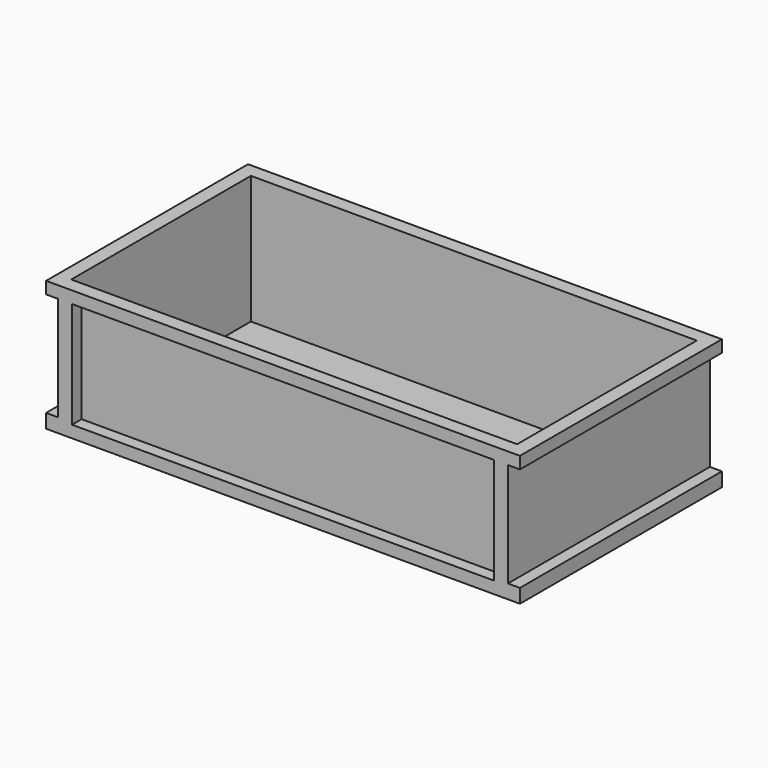
from build123d import *

# Parameters (mm, degrees)
SKETCH_W          = 1186
SKETCH_H          = 632
PAD_DEPTH         = 326
SKETCH001_W       = 30
SKETCH001_H       = 261
POCKET_DEPTH      = 3081.716821
POCKET_DEPTH_BACK = 3081.716821
SKETCH002_W       = 1056
SKETCH002_H       = 266
POCKET001_DEPTH   = 30
SKETCH003_W       = 1116
SKETCH003_H       = 562
POCKET002_DEPTH   = 321.001


with BuildPart() as part:
    # Sketch → Pad (new body)
    with BuildSketch(Plane.XY):
        Rectangle(SKETCH_W, SKETCH_H)
    extrude(amount=PAD_DEPTH)

    # Sketch001 → Pocket (cut, two sides)
    with BuildSketch(Plane.XZ) as pocket_sk:
        with Locations((578, 165.5)):
            Rectangle(SKETCH001_W, SKETCH001_H)
    pocket = extrude(amount=-POCKET_DEPTH, mode=Mode.SUBTRACT) + extrude(pocket_sk.sketch, amount=POCKET_DEPTH_BACK, mode=Mode.SUBTRACT)

    # Mirrored: Pocket across Sketch001 V_Axis
    add(pocket.mirror(Plane(origin=(0, 0, 0), x_dir=(0, -1, 0), z_dir=(1, 0, 0))), mode=Mode.SUBTRACT)

    # Sketch002 → Pocket001 (cut)
    with BuildSketch(Plane.XZ.offset(286)):
        with Locations((0, 163)):
            Rectangle(SKETCH002_W, SKETCH002_H)
    pocket001 = extrude(amount=POCKET001_DEPTH, mode=Mode.SUBTRACT)

    # Mirrored001: Pocket001 across XZ
    add(pocket001.mirror(Plane.XZ), mode=Mode.SUBTRACT)

    # Sketch003 → Pocket002 (cut, through all)
    with BuildSketch(Plane.XY.offset(5)):
        Rectangle(SKETCH003_W, SKETCH003_H)
    extrude(amount=POCKET002_DEPTH, mode=Mode.SUBTRACT)


solid = part.part
